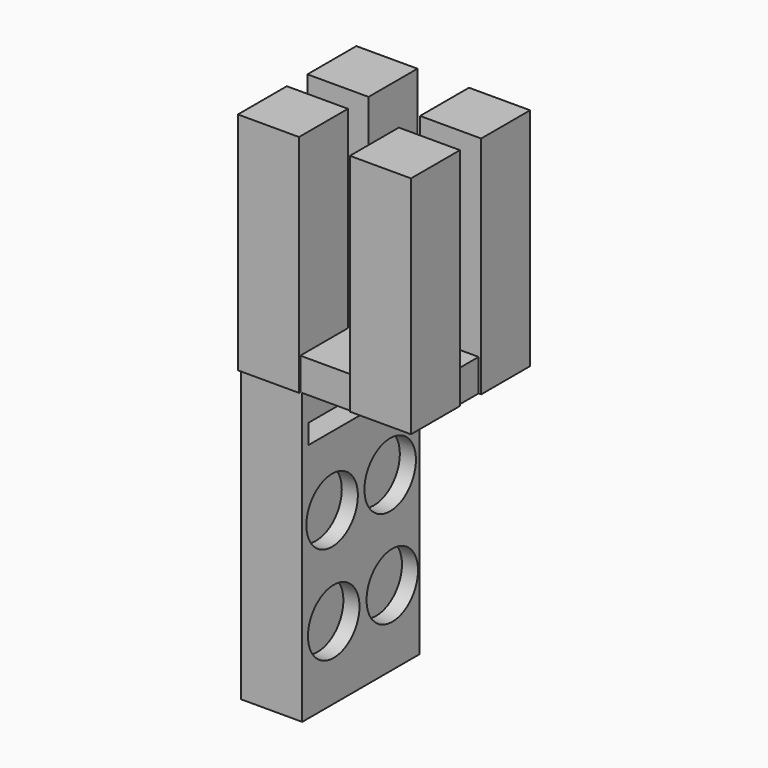
from build123d import *

# Parameters (mm, degrees)
F0_W      = 19
F0_H      = 19
F1_DEPTH  = 70
F0_W_2    = 0.3230534494
F0_H_2    = 1.6152560711
F2_W      = 52.6888538152
F2_H      = 45.6070173532
F3_DEPTH  = 10
F4_W      = 19.098944962
F4_H      = 45.6070173532
F5_DEPTH  = 90
F6_R      = 10
F7_DEPTH  = 5
F8_W      = 41.3415543735
F8_H      = 6.098520942
F10_DEPTH = 25


with BuildPart() as f1:
    # F0 (on Top) → F1 (new body)
    with BuildSketch(Plane.XY):
        with Locations((17.5, 13.5)):
            Rectangle(F0_W, F0_H)
    extrude(amount=F1_DEPTH)


with BuildPart() as f1b:
    # F0 (on Top) → F1, piece 2 (new body)
    with BuildSketch(Plane.XY):
        with Locations((17.2985338867, -13.5)):
            Rectangle(F0_W, F0_H)
    extrude(amount=F1_DEPTH)


with BuildPart() as f1c:
    # F0 (on Top) → F1, piece 3 (new body)
    with BuildSketch(Plane.XY):
        with Locations((-17.5, 13.5)):
            Rectangle(F0_W, F0_H)
    extrude(amount=F1_DEPTH)


with BuildPart() as f1d:
    # F0 (on Top) → F1, piece 4 (new body)
    with BuildSketch(Plane.XY):
        with Locations((-57.8844789416, 37.6091524959)):
            Rectangle(F0_W_2, F0_H_2)
    extrude(amount=F1_DEPTH)


with BuildPart() as f1e:
    # F0 (on Top) → F1, piece 5 (new body)
    with BuildSketch(Plane.XY):
        with Locations((-17.5, -13.5)):
            Rectangle(F0_W, F0_H)
    extrude(amount=F1_DEPTH)


with BuildPart() as f3:
    # F2 (on Top) → F3 (new body)
    with BuildSketch(Plane.XY):
        with Locations((-0.1416346058, 0.2832738683)):
            Rectangle(F2_W, F2_H)
    extrude(amount=F3_DEPTH)


with BuildPart() as f5:
    # F4 (on face) → F5 (new body)
    with BuildSketch(Plane(origin=(0, 0, 0), x_dir=(1, 0, 0), z_dir=(0, 0, -1))):
        with Locations((-16.9365890324, -0.2832738683)):
            Rectangle(F4_W, F4_H)
    extrude(amount=F5_DEPTH)

    # F6 (on face) → F7 (cut)
    with BuildSketch(Plane.YZ.offset(-7.3871165514)):
        with Locations((-10.2943791855, -67.4467873472)):
            Circle(F6_R)
        with Locations((11.6329715849, -36.2525216682)):
            Circle(F6_R)
        with Locations((-10.9161689182, -36.8081549947)):
            Circle(F6_R)
        with Locations((12.4510379139, -66.8250028538)):
            Circle(F6_R)
    extrude(amount=-F7_DEPTH, mode=Mode.SUBTRACT)

    # F8 (on face) → F10 (cut)
    with BuildSketch(Plane.YZ.offset(-7.3871165514)):
        with Locations((0.61455369, -12.2019560076)):
            Rectangle(F8_W, F8_H)
    extrude(amount=-F10_DEPTH, mode=Mode.SUBTRACT)


solid = Compound([f1.part, f1b.part, f1c.part, f1e.part, f3.part, f5.part])
